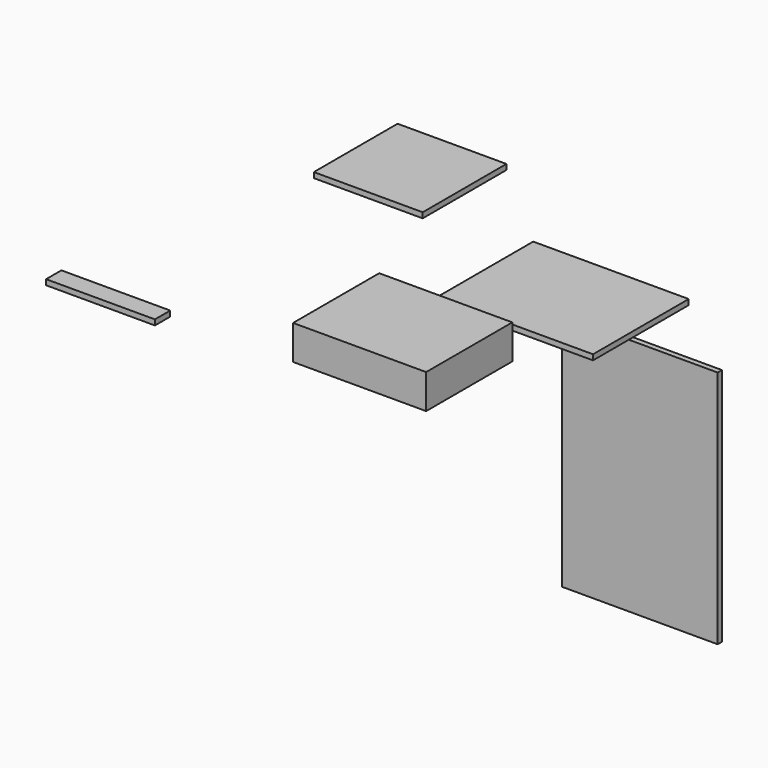
from build123d import *

# Parameters (mm, degrees)
F0_W     = 520
F0_H     = 400
F1_DEPTH = 18
F2_W     = 520
F2_H     = 800
F3_DEPTH = 18
F4_W     = 364
F4_H     = 350
F5_DEPTH = 18
F6_W     = 364
F6_H     = 64
F7_DEPTH = 18
F8_W     = 445
F8_H     = 360
F9_DEPTH = 115


with BuildPart() as f1:
    # F0 (on Top) → F1 (new body)
    with BuildSketch(Plane.XY):
        with Locations((260, -200)):
            Rectangle(F0_W, F0_H)
    extrude(amount=F1_DEPTH)


with BuildPart() as f3:
    # F2 (on Front) → F3 (new body)
    with BuildSketch(Plane.XZ):
        with Locations((371.036677, -554.97741)):
            Rectangle(F2_W, F2_H)
    extrude(amount=F3_DEPTH)


with BuildPart() as f5:
    # F4 (on Top) → F5 (new body)
    with BuildSketch(Plane.XY):
        with Locations((-510.943099, 124.207413)):
            Rectangle(F4_W, F4_H)
    extrude(amount=F5_DEPTH)


with BuildPart() as f7:
    # F6 (on Top) → F7 (new body)
    with BuildSketch(Plane.XY):
        with Locations((-678.525298, -928.570789)):
            Rectangle(F6_W, F6_H)
    extrude(amount=F7_DEPTH)


with BuildPart() as f9:
    # F8 (on Top) → F9 (new body)
    with BuildSketch(Plane.XY):
        with Locations((136.589084, -716.390855)):
            Rectangle(F8_W, F8_H)
    extrude(amount=F9_DEPTH)


solid = Compound([f1.part, f3.part, f5.part, f7.part, f9.part])
